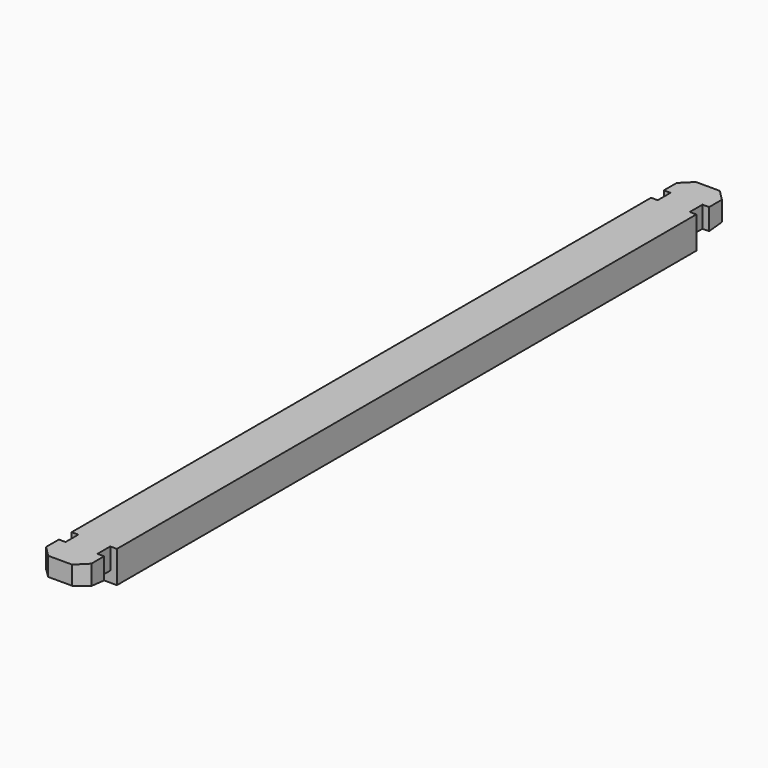
from build123d import *

# Parameters (mm, degrees)
F0_W      = 13.49375
F0_H      = 19.05
F1_DEPTH  = 241.3
F2_W      = 3.96875
F2_H      = 9.525
F3_DEPTH  = 19.051
F5_DEPTH  = 13.49475
F6_SIZE   = 6.35
F9_W      = 3.175
F9_H      = 431.8
F10_DEPTH = 6.35


with BuildPart() as f1:
    # F0 (on Front) → F1 (new body)
    with BuildSketch(Plane.XZ):
        with Locations((-6.746875, 9.525)):
            Rectangle(F0_W, F0_H)
    extrude(amount=F1_DEPTH)

    # F2 (on Top) → F3 (cut, through all)
    with BuildSketch(Plane.XY):
        with Locations((-11.509375, -220.6625)):
            Rectangle(F2_W, F2_H)
    extrude(amount=F3_DEPTH, mode=Mode.SUBTRACT)

    # F4 (on Right) → F5 (cut, through all)
    with BuildSketch(Plane.YZ):
        Polygon((-215.9, 0), (-215.9, 6.35), (-225.425, 6.35), (-241.3, 7.9375), (-241.3, 0), align=None)
    extrude(amount=-F5_DEPTH, mode=Mode.SUBTRACT)

    # F6
    f6_edges = [f1.edges().sort_by_distance(p)[0] for p in [
        (-13.49375, -241.3, 13.49375),
    ]]
    chamfer(f6_edges, length=F6_SIZE)

    # F7: F1 across plane


with BuildPart() as f1_1:
    add(f1.part)
    add(f1.part.mirror(Plane.YZ))

    # F8: F1 across plane


with BuildPart() as f1_2:
    add(f1_1.part)
    add(f1_1.part.mirror(Plane.XZ))

    # F9 (on face) → F10 (cut)
    with BuildSketch(Plane(origin=(0, 0, 0), x_dir=(1, 0, 0), z_dir=(0, 0, -1))):
        Rectangle(F9_W, F9_H)
    extrude(amount=-F10_DEPTH, mode=Mode.SUBTRACT)


solid = f1_2.part
